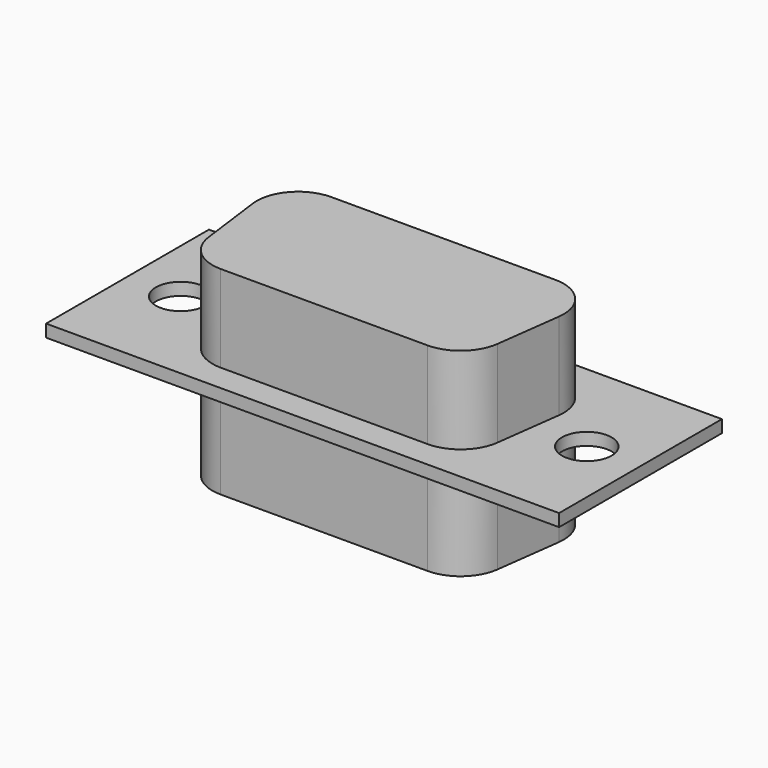
from build123d import *

# Parameters (mm, degrees)
CYLINDER001_R     = 1.5
CYLINDER001_DEPTH = 10
CYLINDER_R        = 1.5
CYLINDER_DEPTH    = 10
EXTRUDE_DEPTH     = 12
BOX_W             = 31
BOX_H             = 12.3
BOX_DEPTH         = 0.75


with BuildPart() as screw_hole2:
    # Cylinder001 → Cylinder001 (new body)
    with BuildSketch(Plane(origin=(12.27, 0, 0), x_dir=(1, 0, 0), z_dir=(0, 0, 1))):
        Circle(CYLINDER001_R)
    extrude(amount=CYLINDER001_DEPTH)


with BuildPart() as screw_hole1:
    # Cylinder → Cylinder (new body)
    with BuildSketch(Plane(origin=(-12.27, 0, 0), x_dir=(1, 0, 0), z_dir=(0, 0, 1))):
        Circle(CYLINDER_R)
    extrude(amount=CYLINDER_DEPTH)


with BuildPart() as extrude_body:
    # Sketch → Extrude (new body)
    with BuildSketch(Plane.XY):
        with BuildLine():
            Line((-6.770935, 4.5), (6.770935, 4.5))
            ThreePointArc((9.25, 1.677142), (8.649385, 3.649675), (6.770935, 4.5))
            Line((9.25, 1.677142), (8.729065, -2.322858))
            ThreePointArc((6.25, -4.5), (7.899675, -3.878449), (8.729065, -2.322858))
            Line((6.25, -4.5), (-6.25, -4.5))
            ThreePointArc((-8.729065, -2.322858), (-7.899675, -3.878449), (-6.25, -4.5))
            Line((-8.729065, -2.322858), (-9.25, 1.677142))
            ThreePointArc((-6.770935, 4.5), (-8.649385, 3.649675), (-9.25, 1.677142))
        make_face()
    extrude(amount=EXTRUDE_DEPTH)


with BuildPart() as db9_connector:
    # Box → Box (new body)
    with BuildSketch(Plane(origin=(-15.5, -6.13, 6), x_dir=(1, 0, 0), z_dir=(0, 0, 1))):
        with Locations((15.5, 6.15)):
            Rectangle(BOX_W, BOX_H)
    extrude(amount=BOX_DEPTH)

    # Fusion: union Extrude body
    add(extrude_body.part)

    # Cut: cut screw_hole1
    add(screw_hole1.part, mode=Mode.SUBTRACT)

    # Cut001: cut screw_hole2
    add(screw_hole2.part, mode=Mode.SUBTRACT)


solid = db9_connector.part
